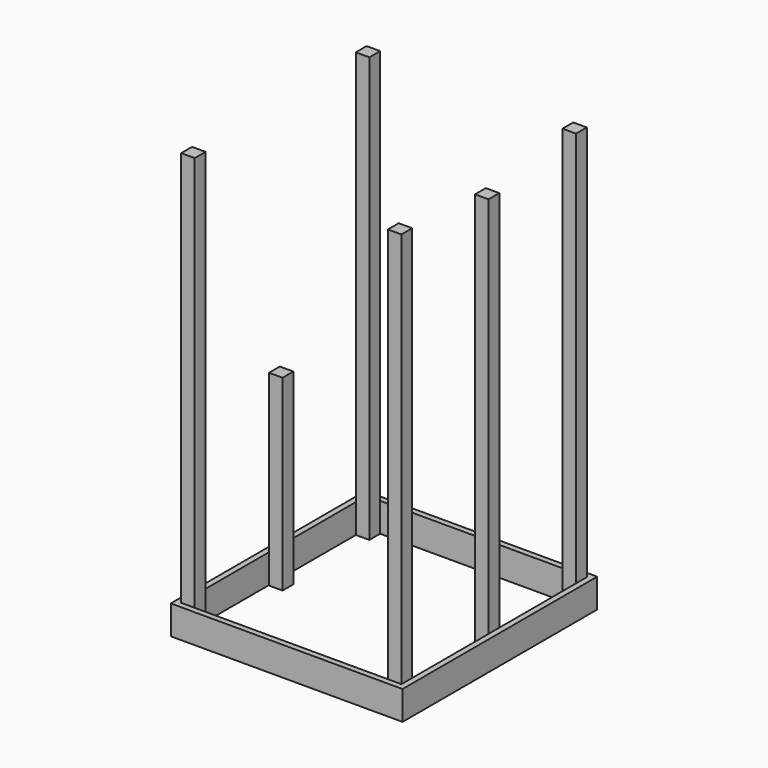
from build123d import *

# Parameters (mm, degrees)
F1_DEPTH = 7.5
F2_DEPTH = 7.5
F3_DEPTH = 7.5
F0_W     = 3.5
F0_H     = 3.5
F4_DEPTH = 110
F5_DEPTH = 110
F6_DEPTH = 48.5
F7_DEPTH = 106.5


with BuildPart() as f1:
    # F0 (on Top) → F1 (new body)
    with BuildSketch(Plane.XY):
        Polygon((28.5, -30), (30, -30), (30, 30), (28.5, 30), (28.5, 26.5), (28.5, -26.5), align=None)
    extrude(amount=F1_DEPTH)

    # F0 (on Top) → F2 (join)
    with BuildSketch(Plane.XY):
        Polygon((28.5, 30), (30, 30), (30, 31.5), (-30, 31.5), (-30, 30), (-28.5, 30), (-25, 30), (25, 30), align=None)
    extrude(amount=F2_DEPTH)

    # F0 (on Top) → F3 (join)
    with BuildSketch(Plane.XY):
        Polygon((-30, -31.5), (30, -31.5), (30, -30), (28.5, -30), (25, -30), (-25, -30), (-28.5, -30), (-30, -30), align=None)
        Polygon((-30, 30), (-30, -30), (-28.5, -30), (-28.5, -26.5), (-28.5, 26.5), (-28.5, 30), align=None)
    extrude(amount=F3_DEPTH)

    # F0 (on Top) → F4 (join)
    with BuildSketch(Plane.XY):
        with Locations((-26.75, 28.25)):
            Rectangle(F0_W, F0_H)
    extrude(amount=F4_DEPTH)

    # F0 (on Top) → F5 (join)
    with BuildSketch(Plane.XY):
        with Locations((-26.75, -28.25)):
            Rectangle(F0_W, F0_H)
        with Locations((26.75, -28.25)):
            Rectangle(F0_W, F0_H)
        with Locations((26.75, 28.25)):
            Rectangle(F0_W, F0_H)
    extrude(amount=F5_DEPTH)


with BuildPart() as f6:
    # F0 (on Top) → F6 (new body)
    with BuildSketch(Plane.XY):
        with Locations((-26.6152974218, 0)):
            Rectangle(F0_W, F0_H)
    extrude(amount=F6_DEPTH)


with BuildPart() as f7:
    # F0 (on Top) → F7 (new body)
    with BuildSketch(Plane.XY):
        with Locations((26.7027337104, 0)):
            Rectangle(F0_W, F0_H)
    extrude(amount=F7_DEPTH)


solid = Compound([f1.part, f6.part, f7.part])
